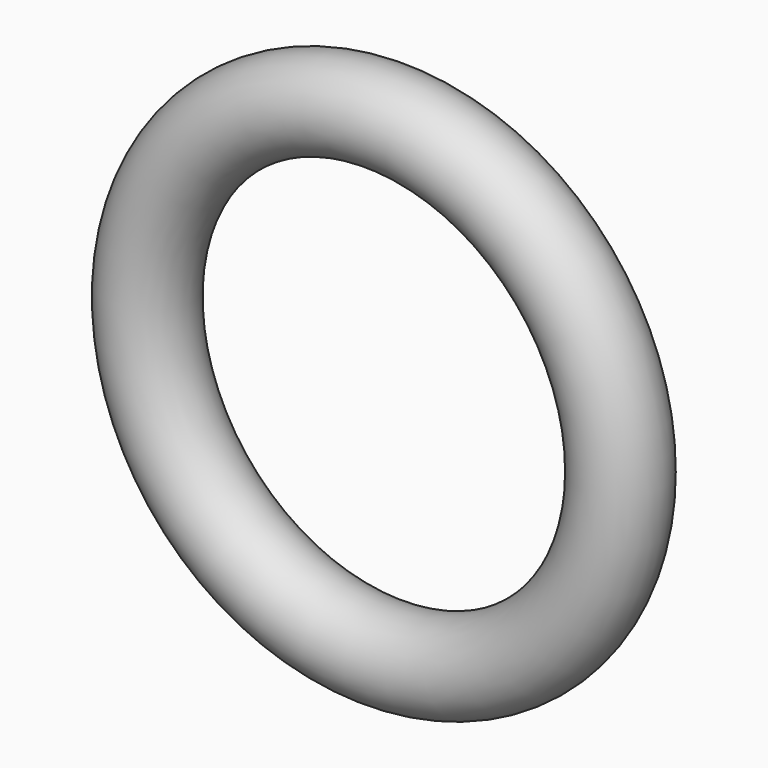
from build123d import *


with BuildPart() as f2:
    # F2: sweep along a path in F0
    with BuildLine(Plane.XZ) as f2_path:
        CenterArc((0, 0), 5.5, 0, 360)
    # F1 (on Top) → F2 (sweep)
    with BuildSketch(Plane.XY):
        with BuildLine():
            ThreePointArc((3.8, 0), (4.65, -0.85), (5.5, 0))
            Line((5.5, 0), (3.8, 0))
        make_face()
        with BuildLine():
            Line((3.8, 0), (5.5, 0))
            ThreePointArc((5.5, 0), (4.65, 0.85), (3.8, 0))
        make_face()
    sweep(path=f2_path.line)


solid = f2.part
